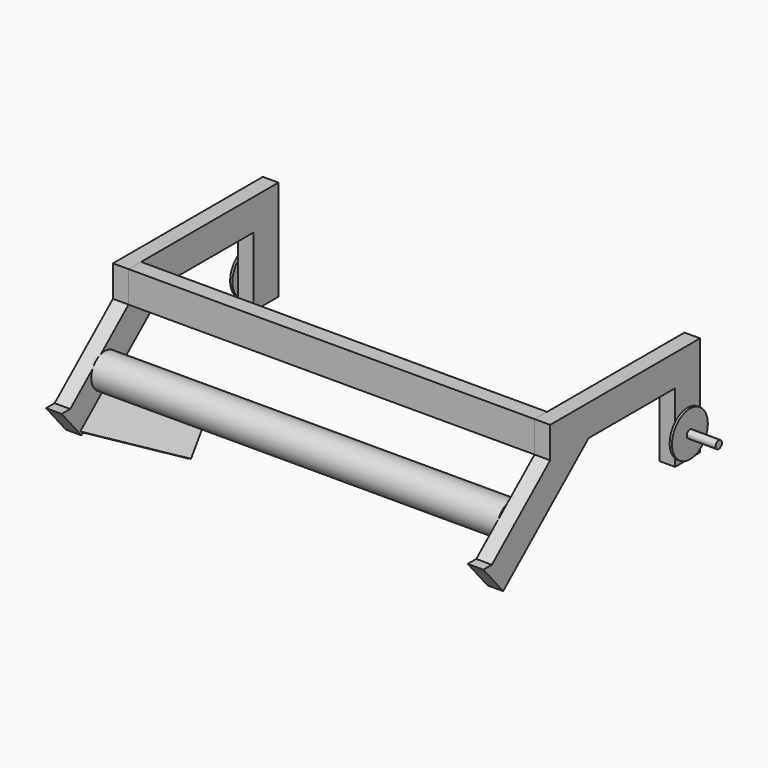
from build123d import *

# Parameters (mm, degrees)
F1_DEPTH       = 25.4
F5_DEPTH       = 6.35
F5_DEPTH_BACK  = 0.0254
F6_ANGLE       = 30
F7_ANGLE       = 30
F10_W          = 25.4
F10_H          = 50.8124679327
F11_DEPTH      = 330.2
F11_DEPTH_BACK = 330.2
F10_R          = 27.760583961
F12_R          = 6.35
F13_DEPTH      = 50.8
F9_R           = 36.3792713279
F14_DEPTH      = 3.81


with BuildPart() as f1:
    # F0 (on Right) → F1 (new body)
    with BuildSketch(Plane.YZ):
        Polygon((-94.1561409712, 112.6777077851), (-94.1561409712, 0), (-43.3561409712, 0), (-43.3561409712, 163.4777077851), (-68.7561409712, 163.4777077851), (-68.7561409712, 112.6777077851), align=None)
        Polygon((-269.9665918757, 112.6777077851), (-94.1561409712, 112.6777077851), (-68.7561409712, 112.6777077851), (-68.7561409712, 163.4777077851), (-348.1561409712, 163.4777077851), (-348.1561409712, 112.6777077851), align=None)
        Polygon((-443.7455627794, -35.8444429927), (-269.9665918757, 112.6777077851), (-348.1561409712, 112.6777077851), (-466.6854802941, 11.3752756498), (-476.7504851745, 2.773106097), align=None)
        Polygon((-484.1024260721, 11.3752756498), (-476.7504851745, 2.773106097), (-466.6854802941, 11.3752756498), align=None)
    extrude(amount=F1_DEPTH)


with BuildPart() as f3_1:
    # F3: instance of F1
    add(f1.part.mirror(Plane(origin=(-330.2, -233.6237209746, 93.7332912661), x_dir=(0, 1, 0), z_dir=(-1, 0, 0))))


with BuildPart() as f5:
    # F4 (on Right) → F5 (new body, two sides)
    with BuildSketch(Plane.YZ) as f5_sk:
        Polygon((-443.7630806157, 40.346010234), (-443.7455627794, -35.8444429927), (-272.5685679934, -35.8444429927), (-259.1341354171, 40.346010234), align=None)
    extrude(amount=F5_DEPTH)
    extrude(f5_sk.sketch, amount=-F5_DEPTH_BACK)


with BuildPart() as f5_1:
    # F6: moved
    add(f5.part.rotate(Axis((3.1623, -443.7455627794, -35.8444429927), (-1, 0, 0)), F6_ANGLE))


with BuildPart() as f5_2:
    # F7: moved
    add(f5_1.part.rotate(Axis((25.4, -356.8560773276, 38.4166323962), (0, 0.7601879742, 0.6497031968)), F7_ANGLE))


with BuildPart() as f8_1:
    # F8: instance of F5
    add(f5_2.part.mirror(Plane(origin=(-330.2, -233.6237209746, 93.7332912661), x_dir=(0, 1, 0), z_dir=(-1, 0, 0))))


with BuildPart() as f11:
    # F10 (on offset) → F11 (new body, two sides)
    with BuildSketch(Plane(origin=(-330.2, 0, 0), x_dir=(0, -1, 0), z_dir=(-1, 0, 0))) as f11_sk:
        with Locations((335.4561409712, 138.0714738188)):
            Rectangle(F10_W, F10_H)
    extrude(amount=F11_DEPTH)
    extrude(f11_sk.sketch, amount=-F11_DEPTH_BACK)


with BuildPart() as f11b:
    # F10 (on offset) → F11, piece 2 (new body, two sides)
    with BuildSketch(Plane(origin=(-330.2, 0, 0), x_dir=(0, -1, 0), z_dir=(-1, 0, 0))) as f11_2_sk:
        with Locations((396.3213289501, 38.1)):
            Circle(F10_R)
    extrude(amount=F11_DEPTH)
    extrude(f11_2_sk.sketch, amount=-F11_DEPTH_BACK)


with BuildPart() as f1_1:
    add(f1.part)

    # F12 (on face) → F13 (join)
    with BuildSketch(Plane.YZ.offset(25.4)):
        with Locations((-68.7561409712, 38.1)):
            Circle(F12_R)
    extrude(amount=F13_DEPTH)


with BuildPart() as f14:
    # F9 (on face) → F14 (new body)
    with BuildSketch(Plane.YZ.offset(25.4)):
        with Locations((-68.7561409712, 38.1)):
            Circle(F9_R)
    extrude(amount=F14_DEPTH)


with BuildPart() as f15_1:
    # F15: instance of F14
    add(f14.part.mirror(Plane(origin=(-330.2, -233.6237209746, 93.7332912661), x_dir=(0, 1, 0), z_dir=(-1, 0, 0))))


solid = Compound([f3_1.part, f5_2.part, f8_1.part, f11.part, f11b.part, f1_1.part, f14.part, f15_1.part])
